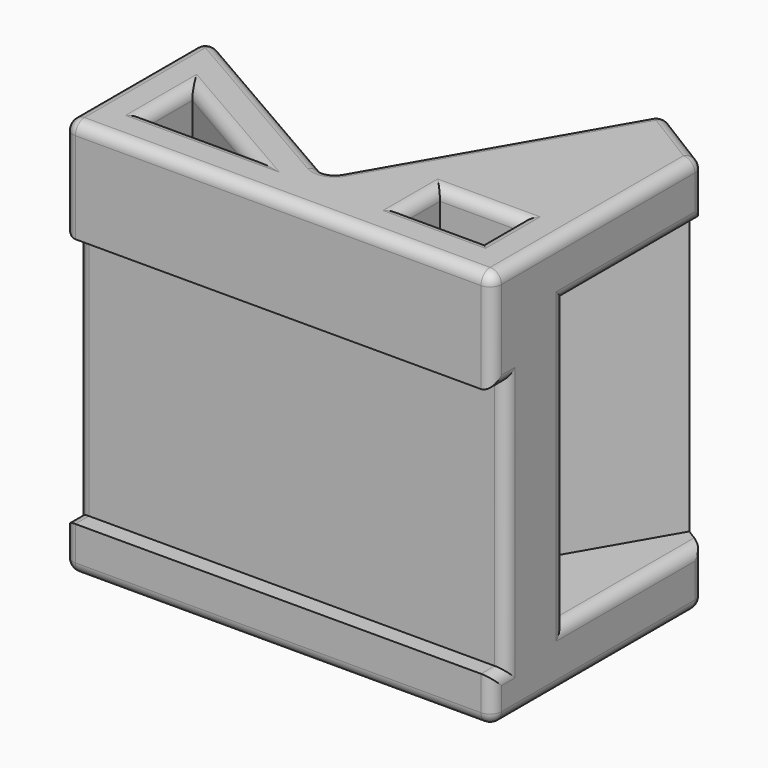
from build123d import *

# Parameters (mm, degrees)
F0_W     = 7
F0_H     = 4
F1_DEPTH = 35
F5_DEPTH = 25
F2_W     = 37.6
F2_H     = 22
F6_DEPTH = 1.5
F7_R     = 1


with BuildPart() as f1:
    # F0 (on Top) → F1 (new body)
    with BuildSketch(Plane.XY):
        Polygon((-24.5947403937, 11), (-24.5947403937, -5), (13.0052596063, -5), (13.0052596063, 17.7735), (6.9012222925, 21.5526076059), (-5.5421815105, 0), align=None)
        Polygon((-20.5947403937, -1), (-20.5947403937, 4.0717967697), (-11.8101307029, -1), align=None, mode=Mode.SUBTRACT)
        with Locations((5.5052596063, 1)):
            Rectangle(F0_W, F0_H, mode=Mode.SUBTRACT)
    extrude(amount=F1_DEPTH)

    # F4 (on offset) → F5 (cut)
    with BuildSketch(Plane(origin=(0, 0, 5), x_dir=(1, 0, 0), z_dir=(0, 0, -1))):
        Polygon((13.0052596063, -22.1251103646), (13.0052596063, -3), (1.963371989, -3), align=None)
    extrude(amount=-F5_DEPTH, mode=Mode.SUBTRACT)

    # F2 (on face) → F6 (cut)
    with BuildSketch(Plane.XZ.offset(5)):
        with Locations((-5.7947403937, 15)):
            Rectangle(F2_W, F2_H)
    extrude(amount=-F6_DEPTH, mode=Mode.SUBTRACT)

    # F7
    f7_edges = [f1.edges().sort_by_distance(p)[0] for p in [
        (6.901222, 21.552608, 17.5),
        (-5.542182, 0, 17.5),
        (0.67952, 10.776304, 0),
        (0.67952, 10.776304, 35),
        (-24.59474, 11, 17.5),
        (-15.068461, 5.5, 0),
        (-15.068461, 5.5, 35),
        (-24.59474, 3, 0),
        (-5.79474, -5, 0),
        (13.00526, 6.38675, 0),
        (9.953241, 19.663054, 0),
        (-20.59474, 1.535898, 0),
        (-16.202436, 1.535898, 0),
        (-16.202436, -1, 0),
        (2.00526, 1, 0),
        (5.50526, 3, 0),
        (9.00526, 1, 0),
        (5.50526, -1, 0),
        (-24.59474, -5, 2),
        (-24.59474, -4.25, 4),
        (-24.59474, -3.5, 15),
        (-24.59474, -4.25, 26),
        (-24.59474, -5, 30.5),
        (-24.59474, 3, 35),
        (-5.79474, -5, 35),
        (13.00526, 6.38675, 35),
        (9.953241, 19.663054, 35),
        (-20.59474, 1.535898, 35),
        (-16.202436, 1.535898, 35),
        (-16.202436, -1, 35),
        (2.00526, 1, 35),
        (5.50526, 3, 35),
        (9.00526, 1, 35),
        (5.50526, -1, 35),
        (13.00526, 17.7735, 2.5),
        (13.00526, 10.38675, 5),
        (13.00526, 3, 17.5),
        (13.00526, 10.38675, 30),
        (13.00526, 17.7735, 32.5),
        (13.00526, -5, 30.5),
        (13.00526, -4.25, 26),
        (13.00526, -3.5, 15),
        (13.00526, -4.25, 4),
        (13.00526, -5, 2),
    ]]
    fillet(f7_edges, radius=F7_R)


solid = f1.part
